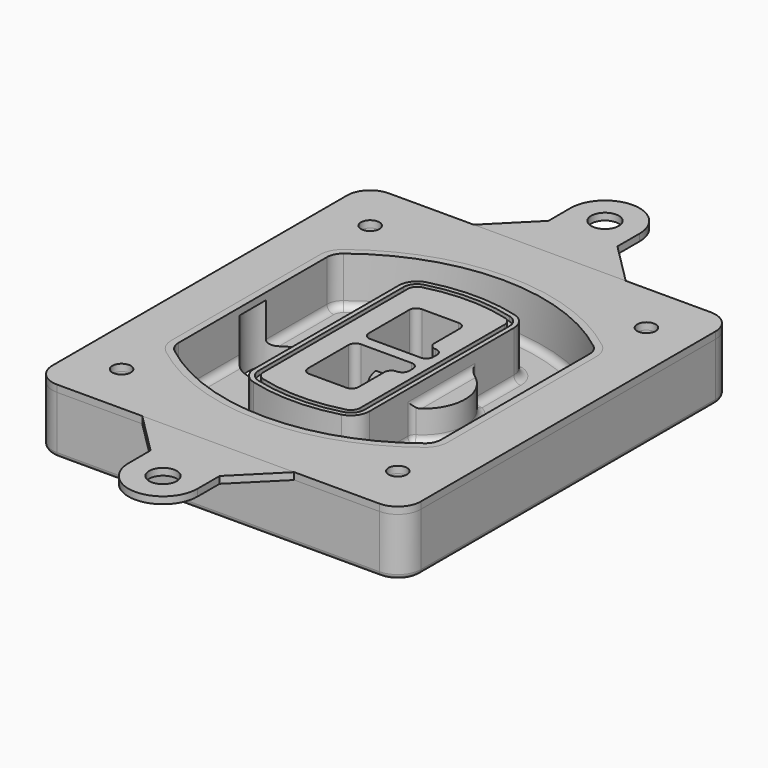
from build123d import *

# Parameters (mm, degrees)
F0_R      = 4
F1_DEPTH  = 25
F2_DEPTH  = 3
F3_DEPTH  = 18
F5_DEPTH  = 21
F6_DEPTH  = 2
F8_DEPTH  = 20
F9_DEPTH  = 16
F10_DEPTH = 25
F7_R      = 6
F7_R_2    = 4
F11_DEPTH = 6
F13_DEPTH = 9
F14_R     = 3
F15_R     = 2
F17_R     = 6
F18_DEPTH = 3
F16_R     = 4


with BuildPart() as f1:
    # F0 (on Top) → F1 (new body)
    with BuildSketch(Plane.XY):
        with BuildLine():
            ThreePointArc((-80, -80), (-77.0710678119, -87.0710678119), (-70, -90))
            Line((-70, -90), (70, -90))
            ThreePointArc((70, -90), (77.0710678119, -87.0710678119), (80, -80))
            Line((80, -80), (80, 80))
            ThreePointArc((80, 80), (77.0710678119, 87.0710678119), (70, 90))
            Line((70, 90), (-70, 90))
            ThreePointArc((-70, 90), (-77.0710678119, 87.0710678119), (-80, 80))
            Line((-80, 80), (-80, -80))
        make_face()
        with Locations((-60, -67.5)):
            Circle(F0_R, mode=Mode.SUBTRACT)
        with Locations((60, -67.5)):
            Circle(F0_R, mode=Mode.SUBTRACT)
        with Locations((-60, 67.5)):
            Circle(F0_R, mode=Mode.SUBTRACT)
        with BuildLine():
            ThreePointArc((-64, 40.2934422872), (-62.5820384798, 46.4328484224), (-58.6153846154, 51.3286200352))
            ThreePointArc((-58.6153846154, 51.3286200352), (0, 71.5), (58.6153846154, 51.3286200352))
            ThreePointArc((58.6153846154, 51.3286200352), (62.5820384798, 46.4328484224), (64, 40.2934422872))
            Line((64, 40.2934422872), (64, -40.2934422872))
            ThreePointArc((64, -40.2934422872), (62.5820384798, -46.4328484224), (58.6153846154, -51.3286200352))
            ThreePointArc((58.6153846154, -51.3286200352), (0, -71.5), (-58.6153846154, -51.3286200352))
            ThreePointArc((-58.6153846154, -51.3286200352), (-62.5820384798, -46.4328484224), (-64, -40.2934422872))
            Line((-64, -40.2934422872), (-64, 40.2934422872))
        make_face(mode=Mode.SUBTRACT)
        with Locations((60, 67.5)):
            Circle(F0_R, mode=Mode.SUBTRACT)
        with BuildLine():
            ThreePointArc((58.6153846154, 51.3286200352), (0, 71.5), (-58.6153846154, 51.3286200352))
            ThreePointArc((-58.6153846154, 51.3286200352), (-62.5820384798, 46.4328484224), (-64, 40.2934422872))
            Line((-64, 40.2934422872), (-64, -40.2934422872))
            ThreePointArc((-64, -40.2934422872), (-62.5820384798, -46.4328484224), (-58.6153846154, -51.3286200352))
            ThreePointArc((-58.6153846154, -51.3286200352), (0, -71.5), (58.6153846154, -51.3286200352))
            ThreePointArc((58.6153846154, -51.3286200352), (62.5820384798, -46.4328484224), (64, -40.2934422872))
            Line((64, -40.2934422872), (64, 40.2934422872))
            ThreePointArc((64, 40.2934422872), (62.5820384798, 46.4328484224), (58.6153846154, 51.3286200352))
        make_face()
        with BuildLine():
            Line((-60, -40.2934422872), (-60, 40.2934422872))
            ThreePointArc((-60, 40.2934422872), (-58.9871703427, 44.6787323838), (-56.1538461538, 48.1757121072))
            ThreePointArc((-56.1538461538, 48.1757121072), (0, 67.5), (56.1538461538, 48.1757121072))
            ThreePointArc((56.1538461538, 48.1757121072), (58.9871703427, 44.6787323838), (60, 40.2934422872))
            Line((60, 40.2934422872), (60, -40.2934422872))
            ThreePointArc((60, -40.2934422872), (58.9871703427, -44.6787323838), (56.1538461538, -48.1757121072))
            ThreePointArc((56.1538461538, -48.1757121072), (0, -67.5), (-56.1538461538, -48.1757121072))
            ThreePointArc((-56.1538461538, -48.1757121072), (-58.9871703427, -44.6787323838), (-60, -40.2934422872))
        make_face(mode=Mode.SUBTRACT)
        with BuildLine():
            ThreePointArc((-56.1538461538, 48.1757121072), (-58.9871703427, 44.6787323838), (-60, 40.2934422872))
            Line((-60, 40.2934422872), (-60, -40.2934422872))
            ThreePointArc((-60, -40.2934422872), (-58.9871703427, -44.6787323838), (-56.1538461538, -48.1757121072))
            ThreePointArc((-56.1538461538, -48.1757121072), (0, -67.5), (56.1538461538, -48.1757121072))
            ThreePointArc((56.1538461538, -48.1757121072), (58.9871703427, -44.6787323838), (60, -40.2934422872))
            Line((60, -40.2934422872), (60, 40.2934422872))
            ThreePointArc((60, 40.2934422872), (58.9871703427, 44.6787323838), (56.1538461538, 48.1757121072))
            ThreePointArc((56.1538461538, 48.1757121072), (0, 67.5), (-56.1538461538, 48.1757121072))
        make_face()
        with BuildLine():
            ThreePointArc((54.3076923077, 45.8110311612), (56.2910192399, 43.3631453548), (57, 40.2934422872))
            Line((57, 40.2934422872), (57, -40.2934422872))
            ThreePointArc((57, -40.2934422872), (56.2910192399, -43.3631453548), (54.3076923077, -45.8110311612))
            ThreePointArc((54.3076923077, -45.8110311612), (0, -64.5), (-54.3076923077, -45.8110311612))
            ThreePointArc((-54.3076923077, -45.8110311612), (-56.2910192399, -43.3631453548), (-57, -40.2934422872))
            Line((-57, -40.2934422872), (-57, 40.2934422872))
            ThreePointArc((-57, 40.2934422872), (-56.2910192399, 43.3631453548), (-54.3076923077, 45.8110311612))
            ThreePointArc((-54.3076923077, 45.8110311612), (0, 64.5), (54.3076923077, 45.8110311612))
        make_face(mode=Mode.SUBTRACT)
        with BuildLine():
            Line((57, -40.2934422872), (57, 40.2934422872))
            ThreePointArc((57, 40.2934422872), (56.2910192399, 43.3631453548), (54.3076923077, 45.8110311612))
            ThreePointArc((54.3076923077, 45.8110311612), (0, 64.5), (-54.3076923077, 45.8110311612))
            ThreePointArc((-54.3076923077, 45.8110311612), (-56.2910192399, 43.3631453548), (-57, 40.2934422872))
            Line((-57, 40.2934422872), (-57, -40.2934422872))
            ThreePointArc((-57, -40.2934422872), (-56.2910192399, -43.3631453548), (-54.3076923077, -45.8110311612))
            ThreePointArc((-54.3076923077, -45.8110311612), (0, -64.5), (54.3076923077, -45.8110311612))
            ThreePointArc((54.3076923077, -45.8110311612), (56.2910192399, -43.3631453548), (57, -40.2934422872))
        make_face()
    extrude(amount=-F1_DEPTH)

    # F0 (on Top) → F2 (join)
    with BuildSketch(Plane.XY):
        with BuildLine():
            ThreePointArc((-56.1538461538, 48.1757121072), (-58.9871703427, 44.6787323838), (-60, 40.2934422872))
            Line((-60, 40.2934422872), (-60, -40.2934422872))
            ThreePointArc((-60, -40.2934422872), (-58.9871703427, -44.6787323838), (-56.1538461538, -48.1757121072))
            ThreePointArc((-56.1538461538, -48.1757121072), (0, -67.5), (56.1538461538, -48.1757121072))
            ThreePointArc((56.1538461538, -48.1757121072), (58.9871703427, -44.6787323838), (60, -40.2934422872))
            Line((60, -40.2934422872), (60, 40.2934422872))
            ThreePointArc((60, 40.2934422872), (58.9871703427, 44.6787323838), (56.1538461538, 48.1757121072))
            ThreePointArc((56.1538461538, 48.1757121072), (0, 67.5), (-56.1538461538, 48.1757121072))
        make_face()
        with BuildLine():
            ThreePointArc((54.3076923077, 45.8110311612), (56.2910192399, 43.3631453548), (57, 40.2934422872))
            Line((57, 40.2934422872), (57, -40.2934422872))
            ThreePointArc((57, -40.2934422872), (56.2910192399, -43.3631453548), (54.3076923077, -45.8110311612))
            ThreePointArc((54.3076923077, -45.8110311612), (0, -64.5), (-54.3076923077, -45.8110311612))
            ThreePointArc((-54.3076923077, -45.8110311612), (-56.2910192399, -43.3631453548), (-57, -40.2934422872))
            Line((-57, -40.2934422872), (-57, 40.2934422872))
            ThreePointArc((-57, 40.2934422872), (-56.2910192399, 43.3631453548), (-54.3076923077, 45.8110311612))
            ThreePointArc((-54.3076923077, 45.8110311612), (0, 64.5), (54.3076923077, 45.8110311612))
        make_face(mode=Mode.SUBTRACT)
    extrude(amount=F2_DEPTH)

    # F0 (on Top) → F3 (cut)
    with BuildSketch(Plane.XY):
        with BuildLine():
            Line((57, -40.2934422872), (57, 40.2934422872))
            ThreePointArc((57, 40.2934422872), (56.2910192399, 43.3631453548), (54.3076923077, 45.8110311612))
            ThreePointArc((54.3076923077, 45.8110311612), (0, 64.5), (-54.3076923077, 45.8110311612))
            ThreePointArc((-54.3076923077, 45.8110311612), (-56.2910192399, 43.3631453548), (-57, 40.2934422872))
            Line((-57, 40.2934422872), (-57, -40.2934422872))
            ThreePointArc((-57, -40.2934422872), (-56.2910192399, -43.3631453548), (-54.3076923077, -45.8110311612))
            ThreePointArc((-54.3076923077, -45.8110311612), (0, -64.5), (54.3076923077, -45.8110311612))
            ThreePointArc((54.3076923077, -45.8110311612), (56.2910192399, -43.3631453548), (57, -40.2934422872))
        make_face()
    extrude(amount=-F3_DEPTH, mode=Mode.SUBTRACT)

    # F4 (on face) → F5 (join, through all)
    with BuildSketch(Plane.XY.offset(3)):
        with BuildLine():
            ThreePointArc((-25, -39.2465276821), (-23.3511545998, -44.1109737193), (-19.0842911877, -46.9702398883))
            ThreePointArc((-19.0842911877, -46.9702398883), (0, -49.5), (19.0842911877, -46.9702398883))
            ThreePointArc((19.0842911877, -46.9702398883), (23.3511545998, -44.1109737193), (25, -39.2465276821))
            Line((25, -39.2465276821), (25, 39.2465276821))
            ThreePointArc((25, 39.2465276821), (23.3511545998, 44.1109737193), (19.0842911877, 46.9702398883))
            ThreePointArc((19.0842911877, 46.9702398883), (0, 49.5), (-19.0842911877, 46.9702398883))
            ThreePointArc((-19.0842911877, 46.9702398883), (-23.3511545998, 44.1109737193), (-25, 39.2465276821))
            Line((-25, 39.2465276821), (-25, -39.2465276821))
        make_face()
        with BuildLine():
            ThreePointArc((18.5632183908, 45.0393118368), (21.7633659499, 42.89486221), (23, 39.2465276821))
            Line((23, 39.2465276821), (23, -39.2465276821))
            ThreePointArc((23, -39.2465276821), (21.7633659499, -42.89486221), (18.5632183908, -45.0393118368))
            ThreePointArc((18.5632183908, -45.0393118368), (0, -47.5), (-18.5632183908, -45.0393118368))
            ThreePointArc((-18.5632183908, -45.0393118368), (-21.7633659499, -42.89486221), (-23, -39.2465276821))
            Line((-23, -39.2465276821), (-23, 39.2465276821))
            ThreePointArc((-23, 39.2465276821), (-21.7633659499, 42.89486221), (-18.5632183908, 45.0393118368))
            ThreePointArc((-18.5632183908, 45.0393118368), (0, 47.5), (18.5632183908, 45.0393118368))
        make_face(mode=Mode.SUBTRACT)
        with BuildLine():
            Line((23, -39.2465276821), (23, 39.2465276821))
            ThreePointArc((23, 39.2465276821), (21.7633659499, 42.89486221), (18.5632183908, 45.0393118368))
            ThreePointArc((18.5632183908, 45.0393118368), (0, 47.5), (-18.5632183908, 45.0393118368))
            ThreePointArc((-18.5632183908, 45.0393118368), (-21.7633659499, 42.89486221), (-23, 39.2465276821))
            Line((-23, 39.2465276821), (-23, -39.2465276821))
            ThreePointArc((-23, -39.2465276821), (-21.7633659499, -42.89486221), (-18.5632183908, -45.0393118368))
            ThreePointArc((-18.5632183908, -45.0393118368), (0, -47.5), (18.5632183908, -45.0393118368))
            ThreePointArc((18.5632183908, -45.0393118368), (21.7633659499, -42.89486221), (23, -39.2465276821))
        make_face()
        with BuildLine():
            ThreePointArc((18.0421455939, 43.1083837852), (20.1755772999, 41.6787507007), (21, 39.2465276821))
            Line((21, 39.2465276821), (21, -39.2465276821))
            ThreePointArc((21, -39.2465276821), (20.1755772999, -41.6787507007), (18.0421455939, -43.1083837852))
            ThreePointArc((18.0421455939, -43.1083837852), (0, -45.5), (-18.0421455939, -43.1083837852))
            ThreePointArc((-18.0421455939, -43.1083837852), (-20.1755772999, -41.6787507007), (-21, -39.2465276821))
            Line((-21, -39.2465276821), (-21, 39.2465276821))
            ThreePointArc((-21, 39.2465276821), (-20.1755772999, 41.6787507007), (-18.0421455939, 43.1083837852))
            ThreePointArc((-18.0421455939, 43.1083837852), (0, 45.5), (18.0421455939, 43.1083837852))
        make_face(mode=Mode.SUBTRACT)
        with BuildLine():
            Line((21, -39.2465276821), (21, 39.2465276821))
            ThreePointArc((21, 39.2465276821), (20.1755772999, 41.6787507007), (18.0421455939, 43.1083837852))
            ThreePointArc((18.0421455939, 43.1083837852), (0, 45.5), (-18.0421455939, 43.1083837852))
            ThreePointArc((-18.0421455939, 43.1083837852), (-20.1755772999, 41.6787507007), (-21, 39.2465276821))
            Line((-21, 39.2465276821), (-21, -39.2465276821))
            ThreePointArc((-21, -39.2465276821), (-20.1755772999, -41.6787507007), (-18.0421455939, -43.1083837852))
            ThreePointArc((-18.0421455939, -43.1083837852), (0, -45.5), (18.0421455939, -43.1083837852))
            ThreePointArc((18.0421455939, -43.1083837852), (20.1755772999, -41.6787507007), (21, -39.2465276821))
        make_face()
        with BuildLine():
            Line((-8, -2.5), (14, -2.5))
            ThreePointArc((14, -2.5), (16.1213203436, -3.3786796564), (17, -5.5))
            Line((17, -5.5), (17, -7.5))
            ThreePointArc((17, -7.5), (16.1213203436, -9.6213203436), (14, -10.5))
            ThreePointArc((14, -10.5), (11.8786796564, -11.3786796564), (11, -13.5))
            Line((11, -13.5), (11, -27.5))
            ThreePointArc((11, -27.5), (10.1213203436, -29.6213203436), (8, -30.5))
            Line((8, -30.5), (-8, -30.5))
            ThreePointArc((-8, -30.5), (-10.1213203436, -29.6213203436), (-11, -27.5))
            Line((-11, -27.5), (-11, -5.5))
            ThreePointArc((-11, -5.5), (-10.1213203436, -3.3786796564), (-8, -2.5))
        make_face(mode=Mode.SUBTRACT)
        with BuildLine():
            ThreePointArc((-8, 2.5), (-10.1213203436, 3.3786796564), (-11, 5.5))
            Line((-11, 5.5), (-11, 27.5))
            ThreePointArc((-11, 27.5), (-10.1213203436, 29.6213203436), (-8, 30.5))
            Line((-8, 30.5), (8, 30.5))
            ThreePointArc((8, 30.5), (10.1213203436, 29.6213203436), (11, 27.5))
            Line((11, 27.5), (11, 13.5))
            ThreePointArc((11, 13.5), (11.8786796564, 11.3786796564), (14, 10.5))
            ThreePointArc((14, 10.5), (16.1213203436, 9.6213203436), (17, 7.5))
            Line((17, 7.5), (17, 5.5))
            ThreePointArc((17, 5.5), (16.1213203436, 3.3786796564), (14, 2.5))
            Line((14, 2.5), (-8, 2.5))
        make_face(mode=Mode.SUBTRACT)
    extrude(amount=-F5_DEPTH)

    # F4 (on face) → F6 (cut)
    with BuildSketch(Plane.XY.offset(3)):
        with BuildLine():
            Line((23, -39.2465276821), (23, 39.2465276821))
            ThreePointArc((23, 39.2465276821), (21.7633659499, 42.89486221), (18.5632183908, 45.0393118368))
            ThreePointArc((18.5632183908, 45.0393118368), (0, 47.5), (-18.5632183908, 45.0393118368))
            ThreePointArc((-18.5632183908, 45.0393118368), (-21.7633659499, 42.89486221), (-23, 39.2465276821))
            Line((-23, 39.2465276821), (-23, -39.2465276821))
            ThreePointArc((-23, -39.2465276821), (-21.7633659499, -42.89486221), (-18.5632183908, -45.0393118368))
            ThreePointArc((-18.5632183908, -45.0393118368), (0, -47.5), (18.5632183908, -45.0393118368))
            ThreePointArc((18.5632183908, -45.0393118368), (21.7633659499, -42.89486221), (23, -39.2465276821))
        make_face()
        with BuildLine():
            ThreePointArc((18.0421455939, 43.1083837852), (20.1755772999, 41.6787507007), (21, 39.2465276821))
            Line((21, 39.2465276821), (21, -39.2465276821))
            ThreePointArc((21, -39.2465276821), (20.1755772999, -41.6787507007), (18.0421455939, -43.1083837852))
            ThreePointArc((18.0421455939, -43.1083837852), (0, -45.5), (-18.0421455939, -43.1083837852))
            ThreePointArc((-18.0421455939, -43.1083837852), (-20.1755772999, -41.6787507007), (-21, -39.2465276821))
            Line((-21, -39.2465276821), (-21, 39.2465276821))
            ThreePointArc((-21, 39.2465276821), (-20.1755772999, 41.6787507007), (-18.0421455939, 43.1083837852))
            ThreePointArc((-18.0421455939, 43.1083837852), (0, 45.5), (18.0421455939, 43.1083837852))
        make_face(mode=Mode.SUBTRACT)
    extrude(amount=-F6_DEPTH, mode=Mode.SUBTRACT)

    # F7 (on face) → F8 (join)
    with BuildSketch(Plane(origin=(0, 0, -25), x_dir=(1, 0, 0), z_dir=(0, 0, -1))):
        with BuildLine():
            ThreePointArc((3.28842436, 0), (16.7567035675, 13.4682792075), (30.224982775, 0))
            Line((30.224982775, 0), (35.224982775, 0))
            ThreePointArc((35.224982775, 0), (16.7567035675, 18.4682792075), (-1.71157564, 0))
            Line((-1.71157564, 0), (3.28842436, 0))
        make_face()
        with BuildLine():
            Line((3.28842436, 0), (30.224982775, 0))
            ThreePointArc((30.224982775, 0), (16.7567035675, 13.4682792075), (3.28842436, 0))
        make_face()
        with BuildLine():
            ThreePointArc((3.28842436, 0), (16.7567035675, -13.4682792075), (30.224982775, 0))
            Line((30.224982775, 0), (3.28842436, 0))
        make_face()
        with BuildLine():
            Line((35.224982775, 0), (30.224982775, 0))
            ThreePointArc((30.224982775, 0), (16.7567035675, -13.4682792075), (3.28842436, 0))
            Line((3.28842436, 0), (-1.71157564, 0))
            ThreePointArc((-1.71157564, 0), (16.7567035675, -18.4682792075), (35.224982775, 0))
        make_face()
    extrude(amount=-F8_DEPTH)

    # F7 (on face) → F9 (cut)
    with BuildSketch(Plane(origin=(0, 0, -25), x_dir=(1, 0, 0), z_dir=(0, 0, -1))):
        with BuildLine():
            Line((3.28842436, 0), (30.224982775, 0))
            ThreePointArc((30.224982775, 0), (16.7567035675, 13.4682792075), (3.28842436, 0))
        make_face()
        with BuildLine():
            ThreePointArc((3.28842436, 0), (16.7567035675, -13.4682792075), (30.224982775, 0))
            Line((30.224982775, 0), (3.28842436, 0))
        make_face()
    extrude(amount=-F9_DEPTH, mode=Mode.SUBTRACT)

    # F7 (on face) → F10 (cut)
    with BuildSketch(Plane(origin=(0, 0, -25), x_dir=(1, 0, 0), z_dir=(0, 0, -1))):
        with BuildLine():
            Line((-59.0318229325, 0), (-32.0952645175, 0))
            ThreePointArc((-32.0952645175, 0), (-45.563543725, 13.4682792075), (-59.0318229325, 0))
        make_face()
        with BuildLine():
            ThreePointArc((-59.0318229325, 0), (-45.563543725, -13.4682792075), (-32.0952645175, 0))
            Line((-32.0952645175, 0), (-59.0318229325, 0))
        make_face()
    extrude(amount=-F10_DEPTH, mode=Mode.SUBTRACT)

    # F7 (on face) → F11 (cut)
    with BuildSketch(Plane(origin=(0, 0, -25), x_dir=(1, 0, 0), z_dir=(0, 0, -1))):
        with Locations((60, -67.5)):
            Circle(F7_R)
        with Locations((60, -67.5)):
            Circle(F7_R_2, mode=Mode.SUBTRACT)
        with Locations((60, -67.5)):
            Circle(F7_R)
        with Locations((60, -67.5)):
            Circle(F7_R_2, mode=Mode.SUBTRACT)
        with Locations((-60, -67.5)):
            Circle(F7_R)
        with Locations((-60, -67.5)):
            Circle(F7_R_2, mode=Mode.SUBTRACT)
        with Locations((-60, -67.5)):
            Circle(F7_R)
        with Locations((-60, -67.5)):
            Circle(F7_R_2, mode=Mode.SUBTRACT)
        with Locations((-60, 67.5)):
            Circle(F7_R)
        with Locations((-60, 67.5)):
            Circle(F7_R_2, mode=Mode.SUBTRACT)
        with Locations((-60, 67.5)):
            Circle(F7_R)
        with Locations((-60, 67.5)):
            Circle(F7_R_2, mode=Mode.SUBTRACT)
        with Locations((60, 67.5)):
            Circle(F7_R)
        with Locations((60, 67.5)):
            Circle(F7_R_2, mode=Mode.SUBTRACT)
        with Locations((60, 67.5)):
            Circle(F7_R)
        with Locations((60, 67.5)):
            Circle(F7_R_2, mode=Mode.SUBTRACT)
    extrude(amount=-F11_DEPTH, mode=Mode.SUBTRACT)

    # F12 (on face) → F13 (cut, through all)
    with BuildSketch(Plane(origin=(0, 0, -9), x_dir=(1, 0, 0), z_dir=(0, 0, -1))):
        with BuildLine():
            Line((11, 13.5), (11, 17.5481537753))
            ThreePointArc((11, 17.5481537753), (2.5696536419, 11.8239143813), (-1.5415842455, 2.5))
            Line((-1.5415842455, 2.5), (3.5224848595, 2.5))
            ThreePointArc((3.5224848595, 2.5), (6.1857188154, 8.3455872281), (11.2536447004, 12.2927168648))
            ThreePointArc((11.2536447004, 12.2927168648), (11.0640958889, 12.8831798879), (11, 13.5))
        make_face()
        with BuildLine():
            ThreePointArc((11.2536447004, -12.2927168648), (6.1857188154, -8.3455872281), (3.5224848595, -2.5))
            Line((3.5224848595, -2.5), (-1.5415842455, -2.5))
            ThreePointArc((-1.5415842455, -2.5), (2.5696536419, -11.8239143813), (11, -17.5481537753))
            Line((11, -17.5481537753), (11, -13.5))
            ThreePointArc((11, -13.5), (11.0640958889, -12.8831798879), (11.2536447004, -12.2927168648))
        make_face()
        with BuildLine():
            ThreePointArc((11.2536447004, 12.2927168648), (6.1857188154, 8.3455872281), (3.5224848595, 2.5))
            Line((3.5224848595, 2.5), (14, 2.5))
            ThreePointArc((14, 2.5), (16.1213203436, 3.3786796564), (17, 5.5))
            Line((17, 5.5), (17, 7.5))
            ThreePointArc((17, 7.5), (16.1213203436, 9.6213203436), (14, 10.5))
            ThreePointArc((14, 10.5), (12.3601599782, 10.9878446101), (11.2536447004, 12.2927168648))
        make_face()
        with BuildLine():
            Line((14, -2.5), (3.5224848595, -2.5))
            ThreePointArc((3.5224848595, -2.5), (6.1857188154, -8.3455872281), (11.2536447004, -12.2927168648))
            ThreePointArc((11.2536447004, -12.2927168648), (12.3601599782, -10.9878446101), (14, -10.5))
            ThreePointArc((14, -10.5), (16.1213203436, -9.6213203436), (17, -7.5))
            Line((17, -7.5), (17, -5.5))
            ThreePointArc((17, -5.5), (16.1213203436, -3.3786796564), (14, -2.5))
        make_face()
    extrude(amount=F13_DEPTH, mode=Mode.SUBTRACT)

    # F14
    f14_edges = [f1.edges().sort_by_distance(p)[0] for p in [
        (-57, -23.703476, -18),
        (-57, 23.703476, -18),
        (25, 0, -5),
        (25, 16.526506, -11.5),
        (25, -16.526506, -11.5),
        (25, -27.886517, -18),
        (35.224983, 0, -18),
    ]]
    fillet(f14_edges, radius=F14_R)

    # F15
    f15_edges = [f1.edges().sort_by_distance(p)[0] for p in [
        (0, -90, -25),
    ]]
    fillet(f15_edges, radius=F15_R)


with BuildPart() as f18:
    # F17 (on face) → F18 (new body, through all)
    with BuildSketch(Plane.XY):
        with BuildLine():
            Line((-15, 108), (-33, 90))
            Line((-33, 90), (33, 90))
            Line((33, 90), (15, 108))
            Line((15, 108), (15, 120))
            ThreePointArc((15, 120), (0, 135), (-15, 120))
            Line((-15, 120), (-15, 108))
        make_face()
        with Locations((0, 120)):
            Circle(F17_R, mode=Mode.SUBTRACT)
    extrude(amount=F18_DEPTH)


with BuildPart() as f18b:
    # F17 (on face) → F18, piece 2 (new body, through all)
    with BuildSketch(Plane.XY):
        with BuildLine():
            Line((33, -90), (-33, -90))
            Line((-33, -90), (-15, -108))
            Line((-15, -108), (-15, -120))
            ThreePointArc((-15, -120), (0, -135), (15, -120))
            Line((15, -120), (15, -108))
            Line((15, -108), (33, -90))
        make_face()
        with Locations((0, -120)):
            Circle(F17_R, mode=Mode.SUBTRACT)
    extrude(amount=F18_DEPTH)


with BuildPart() as f18c:
    # F16 (on face) → F18, piece 3 (new body, through all)
    with BuildSketch(Plane.XY):
        with BuildLine():
            Line((-80, 80), (-80, -80))
            ThreePointArc((-80, -80), (-77.0710678119, -87.0710678119), (-70, -90))
            Line((-70, -90), (70, -90))
            ThreePointArc((70, -90), (77.0710678119, -87.0710678119), (80, -80))
            Line((80, -80), (80, 80))
            ThreePointArc((80, 80), (77.0710678119, 87.0710678119), (70, 90))
            Line((70, 90), (-70, 90))
            ThreePointArc((-70, 90), (-77.0710678119, 87.0710678119), (-80, 80))
        make_face()
        with Locations((-60, -67.5)):
            Circle(F16_R, mode=Mode.SUBTRACT)
        with Locations((60, -67.5)):
            Circle(F16_R, mode=Mode.SUBTRACT)
        with Locations((-60, 67.5)):
            Circle(F16_R, mode=Mode.SUBTRACT)
        with BuildLine():
            ThreePointArc((-60, 40.2934422872), (-58.9871703427, 44.6787323838), (-56.1538461538, 48.1757121072))
            ThreePointArc((-56.1538461538, 48.1757121072), (0, 67.5), (56.1538461538, 48.1757121072))
            ThreePointArc((56.1538461538, 48.1757121072), (58.9871703427, 44.6787323838), (60, 40.2934422872))
            Line((60, 40.2934422872), (60, -40.2934422872))
            ThreePointArc((60, -40.2934422872), (58.9871703427, -44.6787323838), (56.1538461538, -48.1757121072))
            ThreePointArc((56.1538461538, -48.1757121072), (0, -67.5), (-56.1538461538, -48.1757121072))
            ThreePointArc((-56.1538461538, -48.1757121072), (-58.9871703427, -44.6787323838), (-60, -40.2934422872))
            Line((-60, -40.2934422872), (-60, 40.2934422872))
        make_face(mode=Mode.SUBTRACT)
        with Locations((60, 67.5)):
            Circle(F16_R, mode=Mode.SUBTRACT)
    extrude(amount=F18_DEPTH)


solid = Compound([f1.part, f18.part, f18b.part, f18c.part])
